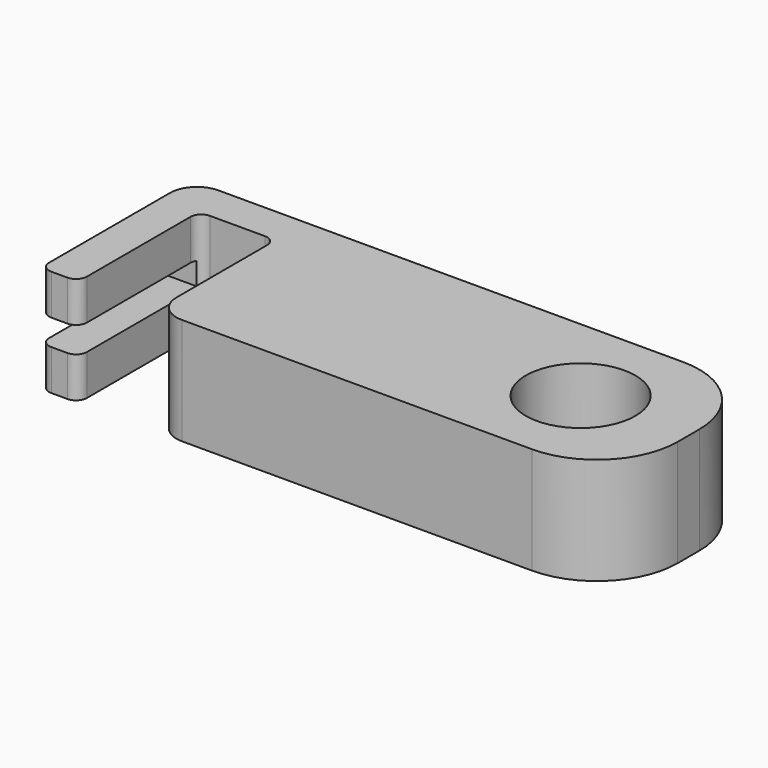
from build123d import *

# Parameters (mm, degrees)
F0_R     = 10.15
F1_DEPTH = 19.8
F2_R     = 15
F3_R     = 5
F4_R     = 5
F5_R     = 2
F6_R     = 2
F7_W     = 7.765233
F7_H     = 2.4
F8_DEPTH = 28


with BuildPart() as f1:
    # F0 (on Top) → F1 (new body)
    with BuildSketch(Plane.XY):
        Polygon((-56.2, 17.5), (-56.2, -17.5), (-49.2, -17.5), (-49.2, 10.5), (-35, 10.5), (-35, -17.5), (49.886581, -17.5), (49.886581, 17.5), align=None)
        with Locations((29.886581, 0)):
            Circle(F0_R, mode=Mode.SUBTRACT)
    extrude(amount=F1_DEPTH)

    # F2
    f2_edges = [f1.edges().sort_by_distance(p)[0] for p in [
        (49.886581, 17.5, 9.9),
        (49.886581, -17.5, 9.9),
    ]]
    fillet(f2_edges, radius=F2_R)

    # F3
    f3_edges = [f1.edges().sort_by_distance(p)[0] for p in [
        (-35, -17.5, 9.9),
    ]]
    fillet(f3_edges, radius=F3_R)

    # F4
    f4_edges = [f1.edges().sort_by_distance(p)[0] for p in [
        (-56.2, 17.5, 9.9),
    ]]
    fillet(f4_edges, radius=F4_R)

    # F5
    f5_edges = [f1.edges().sort_by_distance(p)[0] for p in [
        (-49.2, -17.5, 9.9),
        (-56.2, -17.5, 9.9),
    ]]
    fillet(f5_edges, radius=F5_R)

    # F6
    f6_edges = [f1.edges().sort_by_distance(p)[0] for p in [
        (-49.2, 10.5, 9.9),
        (-35, 10.5, 9.9),
    ]]
    fillet(f6_edges, radius=F6_R)

    # F7 (on face) → F8 (cut, through all)
    with BuildSketch(Plane.XZ.offset(17.5)):
        with Locations((-52.807339, 11.1)):
            Rectangle(F7_W, F7_H)
        with Locations((-52.807339, 8.7)):
            Rectangle(F7_W, F7_H)
    extrude(amount=-F8_DEPTH, mode=Mode.SUBTRACT)


solid = f1.part
